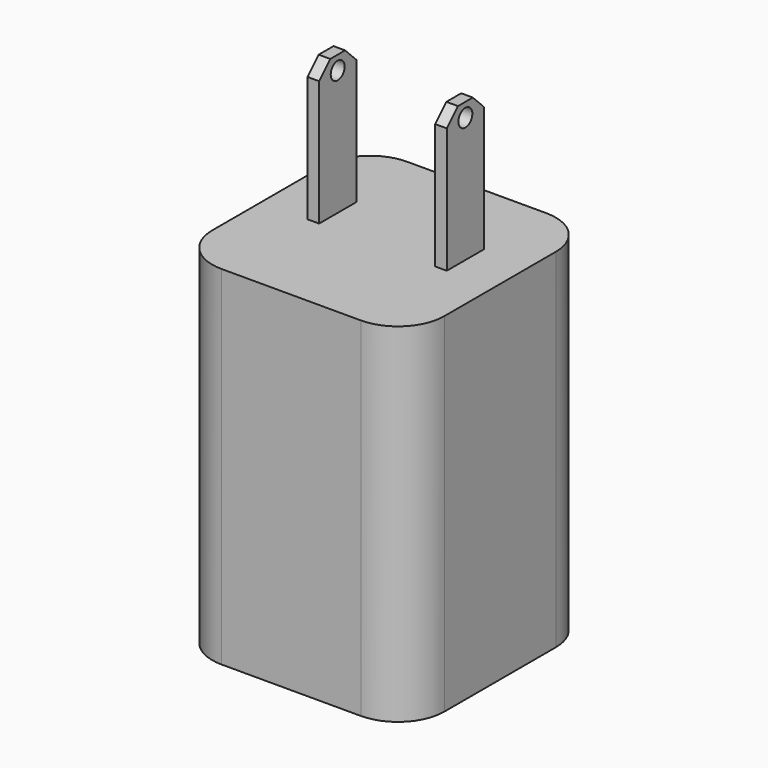
from build123d import *

# Parameters (mm, degrees)
F1_DEPTH = 12.7
F2_W     = 25.4
F2_H     = 25.4
F3_DEPTH = 25.4
F4_R     = 5.08
F5_W     = 1.27
F5_H     = 5.08
F6_DEPTH = 15.24
F7_SIZE  = 1.524
F8_R     = 0.9525
F9_DEPTH = 127


with BuildPart() as f1:
    # F0 (on Top) → F1 (new body)
    with BuildSketch(Plane.XY):
        Polygon((-12.7, -25.4), (0, -25.4), (12.7, -25.4), (12.7, 0), (-12.7, 0), align=None)
        Polygon((6.368273, -21.585433), (0.018273, -21.585433), (-6.331727, -21.585433), (-6.331727, -17.140433), (6.368273, -17.140433), align=None, mode=Mode.SUBTRACT)
    extrude(amount=F1_DEPTH)

    # F2 (on face) → F3 (join)
    with BuildSketch(Plane.XY.offset(12.7)):
        with Locations((0, -12.7)):
            Rectangle(F2_W, F2_H)
    extrude(amount=F3_DEPTH)

    # F4
    f4_edges = [f1.edges().sort_by_distance(p)[0] for p in [
        (-12.7, -25.4, 19.05),
        (12.7, -25.4, 19.05),
        (-12.7, 0, 19.05),
        (12.7, 0, 19.05),
    ]]
    fillet(f4_edges, radius=F4_R)

    # F5 (on face) → F6 (join)
    with BuildSketch(Plane.XY.offset(38.1)):
        with Locations((-6.985, -11.095791)):
            Rectangle(F5_W, F5_H)
        with Locations((6.985, -11.095791)):
            Rectangle(F5_W, F5_H)
    extrude(amount=F6_DEPTH)

    # F7
    f7_edges = [f1.edges().sort_by_distance(p)[0] for p in [
        (-6.985, -13.635791, 53.34),
        (6.985, -13.635791, 53.34),
        (-6.985, -8.555791, 53.34),
        (6.985, -8.555791, 53.34),
    ]]
    chamfer(f7_edges, length=F7_SIZE)

    # F8 (on face) → F9 (cut)
    with BuildSketch(Plane(origin=(-7.62, 0, 0), x_dir=(0, -1, 0), z_dir=(-1, 0, 0))):
        with Locations((11.095791, 51.816)):
            Circle(F8_R)
    extrude(amount=-F9_DEPTH, mode=Mode.SUBTRACT)


solid = f1.part
